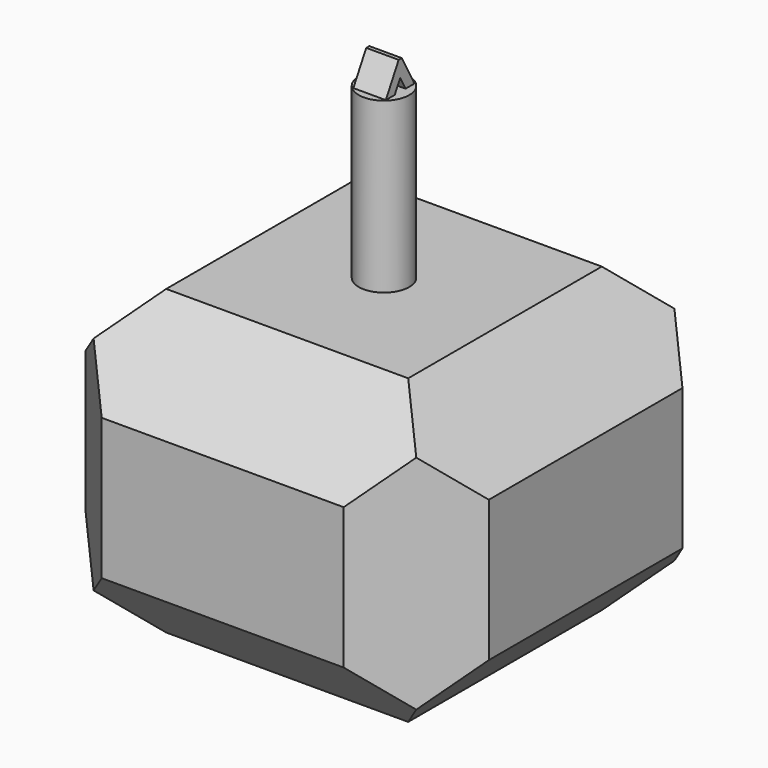
from build123d import *

# Parameters (mm, degrees)
F1_DEPTH = 12.7
F2_SIZE  = 5.08
F4_R     = 1.5875
F5_DEPTH = 11.73114
F6_SIZE  = 5.08
F8_DEPTH = 1.02158
F9_SIZE  = 0.254


with BuildPart() as f1:
    # F0 (on Front) → F1 (new body, symmetric)
    with BuildSketch(Plane.XZ):
        Polygon((-12.7, -38.581686), (0, -38.581686), (12.7, -38.581686), (12.7, -19.531686), (0, -19.531686), (-12.7, -19.531686), align=None)
    extrude(amount=F1_DEPTH, both=True)

    # F2
    f2_edges = [f1.edges().sort_by_distance(p)[0] for p in [
        (0, -12.7, -19.531686),
        (12.7, 0, -19.531686),
        (-12.7, 0, -19.531686),
        (0, 12.7, -19.531686),
        (-12.7, 0, -38.581686),
        (0, -12.7, -38.581686),
        (12.7, 0, -38.581686),
        (0, 12.7, -38.581686),
    ]]
    chamfer(f2_edges, length=F2_SIZE)

    # F4 (on offset) → F5 (join)
    with BuildSketch(Plane.XY.offset(-8.89)):
        Circle(F4_R)
    extrude(amount=-F5_DEPTH)

    # F6
    f6_edges = [f1.edges().sort_by_distance(p)[0] for p in [
        (-12.7, 12.7, -29.056686),
        (12.7, 12.7, -29.056686),
        (12.7, -12.7, -29.056686),
        (-12.7, -12.7, -29.056686),
    ]]
    chamfer(f6_edges, length=F6_SIZE)

    # F7 (on Right) → F8 (join, symmetric)
    with BuildSketch(Plane.YZ):
        Polygon((0.430685, -8.915657), (1.130668, -8.915657), (0, -6.847987), (-1.14363, -8.908516), (-0.443647, -8.908516), (0, -8.118563), align=None)
    extrude(amount=F8_DEPTH, both=True)

    # F9
    f9_edges = [f1.edges().sort_by_distance(p)[0] for p in [
        (0, 0, -6.847987),
    ]]
    chamfer(f9_edges, length=F9_SIZE)


solid = f1.part
